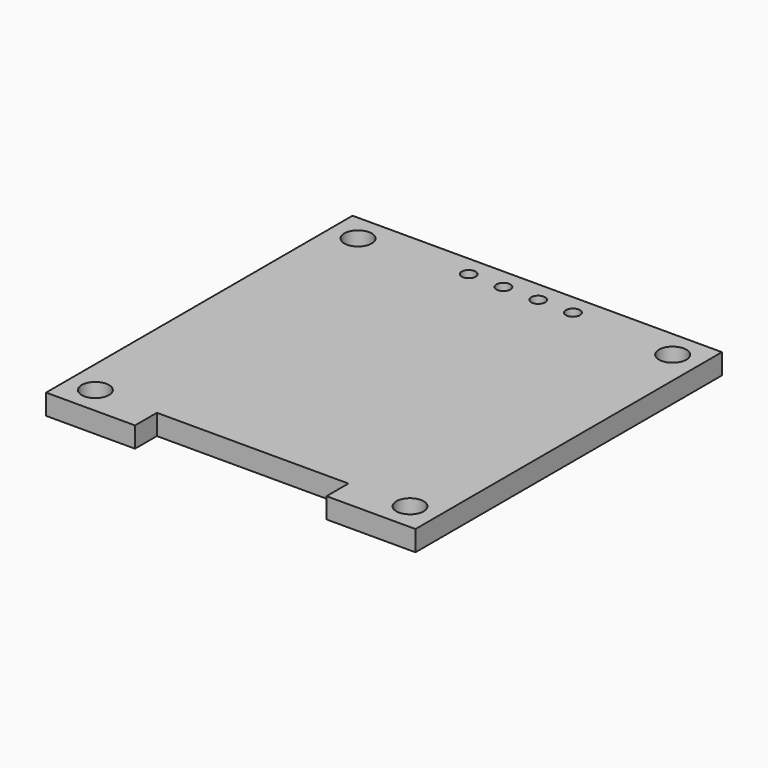
from build123d import *

# Parameters (mm, degrees)
SKETCH_R   = 1
SKETCH_R_2 = 0.51
PAD_DEPTH  = 1.5


with BuildPart() as part:
    # Sketch → Pad (new body)
    with BuildSketch(Plane.XY):
        Polygon((-13.5, 14), (13.5, 14), (13.5, -14), (7, -14), (7, -12), (-7, -12), (-7, -14), (-13.5, -14), align=None)
        with Locations((-11.5, 12)):
            Circle(SKETCH_R, mode=Mode.SUBTRACT)
        with Locations((11.5, 12)):
            Circle(SKETCH_R, mode=Mode.SUBTRACT)
        with Locations((-11.5, -12)):
            Circle(SKETCH_R, mode=Mode.SUBTRACT)
        with Locations((11.5, -12)):
            Circle(SKETCH_R, mode=Mode.SUBTRACT)
        with Locations((-3.81, 12.5)):
            Circle(SKETCH_R_2, mode=Mode.SUBTRACT)
        with Locations((-1.27, 12.5)):
            Circle(SKETCH_R_2, mode=Mode.SUBTRACT)
        with Locations((1.27, 12.5)):
            Circle(SKETCH_R_2, mode=Mode.SUBTRACT)
        with Locations((3.81, 12.5)):
            Circle(SKETCH_R_2, mode=Mode.SUBTRACT)
    extrude(amount=PAD_DEPTH)


solid = part.part
